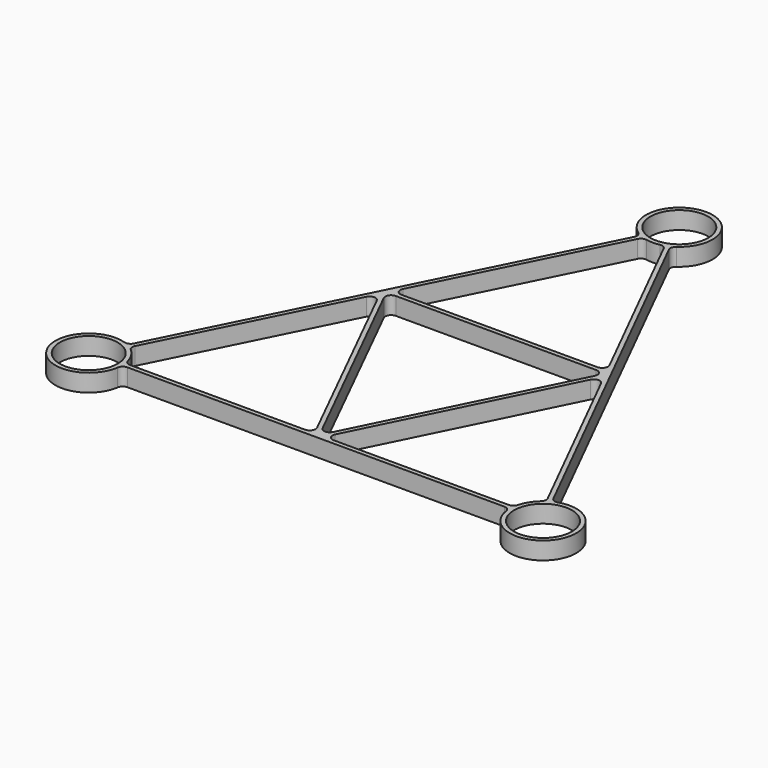
from build123d import *

# Parameters (mm, degrees)
F0_R     = 9.9
F1_DEPTH = 6
F2_R     = 2


with BuildPart() as f1:
    # F0 (on Top) → F1 (new body)
    with BuildSketch(Plane.XY):
        with BuildLine():
            Line((-66.35, -77.75), (66.35, -77.75))
            ThreePointArc((66.35, -77.75), (87.447419, -83.743335), (72.651765, -67.55353))
            Line((72.651765, -67.55353), (5.098235, 67.55353))
            ThreePointArc((5.098235, 67.55353), (0, 89.15), (-5.098235, 67.55353))
            Line((-5.098235, 67.55353), (-72.651765, -67.55353))
            ThreePointArc((-72.651765, -67.55353), (-87.447419, -83.743335), (-66.35, -77.75))
        make_face()
        with Locations((-77.75, -77.75)):
            Circle(F0_R, mode=Mode.SUBTRACT)
        with BuildLine():
            Line((-1.674783, -76.25), (-66.449115, -76.25))
            ThreePointArc((-66.449115, -76.25), (-68.052581, -71.756665), (-71.35445, -68.313002))
            Line((-71.35445, -68.313002), (-38.373599, -2.351301))
            Line((-38.373599, -2.351301), (-1.674783, -76.25))
        make_face(mode=Mode.SUBTRACT)
        with Locations((77.75, -77.75)):
            Circle(F0_R, mode=Mode.SUBTRACT)
        Polygon((37.533359, -0.67082), (0, -76.25), (-37.533359, -0.67082), align=None, mode=Mode.SUBTRACT)
        with BuildLine():
            Line((38.373599, -2.351301), (71.35445, -68.313002))
            ThreePointArc((71.35445, -68.313002), (68.052581, -71.756665), (66.449115, -76.25))
            Line((66.449115, -76.25), (1.674783, -76.25))
            Line((1.674783, -76.25), (38.373599, -2.351301))
        make_face(mode=Mode.SUBTRACT)
        with Locations((0, 77.75)):
            Circle(F0_R, mode=Mode.SUBTRACT)
        with BuildLine():
            ThreePointArc((-3.712269, 66.971361), (0, 66.35), (3.712269, 66.971361))
            Line((3.712269, 66.971361), (36.783359, 0.82918))
            Line((36.783359, 0.82918), (-36.783359, 0.82918))
            Line((-36.783359, 0.82918), (-3.712269, 66.971361))
        make_face(mode=Mode.SUBTRACT)
    extrude(amount=F1_DEPTH)

    # F2
    f2_edges = [f1.edges().sort_by_distance(p)[0] for p in [
        (-37.533359, -0.67082, 3),
        (-3.712269, 66.971361, 3),
        (5.098235, 67.55353, 3),
        (3.712269, 66.971361, 3),
        (-5.098235, 67.55353, 3),
        (38.373599, -2.351301, 3),
        (37.533359, -0.67082, 3),
        (36.783359, 0.82918, 3),
        (1.674783, -76.25, 3),
        (0, -76.25, 3),
        (-1.674783, -76.25, 3),
        (71.35445, -68.313002, 3),
        (66.449115, -76.25, 3),
        (66.35, -77.75, 3),
        (72.651765, -67.55353, 3),
        (-66.35, -77.75, 3),
        (-72.651765, -67.55353, 3),
        (-66.449115, -76.25, 3),
        (-71.35445, -68.313002, 3),
        (-36.783359, 0.82918, 3),
        (-38.373599, -2.351301, 3),
    ]]
    fillet(f2_edges, radius=F2_R)


solid = f1.part
